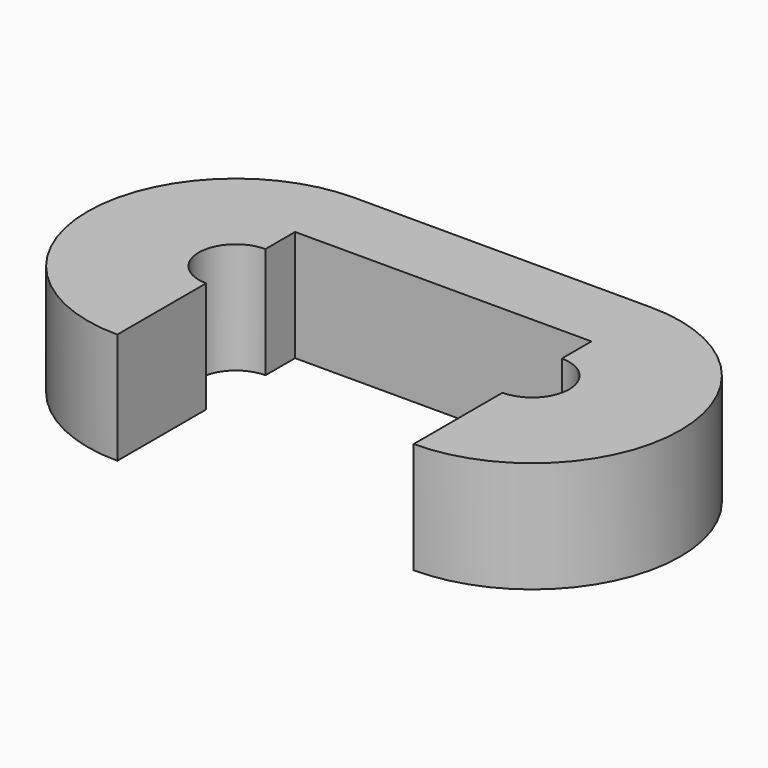
from build123d import *

# Parameters (mm, degrees)
F0_R     = 12.7
F1_DEPTH = 12.7
F2_DEPTH = 76.2
F3_DEPTH = 25.4


with BuildPart() as f1:
    # F0 (on Top) → F1 (new body)
    with BuildSketch(Plane.XY):
        with BuildLine():
            ThreePointArc((0, 50.8), (-50.8, 0), (0, -50.8))
            Line((0, -50.8), (101.6, -50.8))
            ThreePointArc((101.6, -50.8), (152.4, 0), (101.6, 50.8))
            Line((101.6, 50.8), (0, 50.8))
        make_face()
        Circle(F0_R, mode=Mode.SUBTRACT)
        with Locations((101.6, 0)):
            Circle(F0_R, mode=Mode.SUBTRACT)
    extrude(amount=F1_DEPTH)

    # F2 (cut): a face of the model
    f2_faces = [f1.faces().sort_by_distance(p)[0] for p in [
        (50.8, -50.8, 6.35),
    ]]
    extrude(f2_faces, amount=-F2_DEPTH, mode=Mode.SUBTRACT)

    # F3 (add): a face of the model
    f3_faces = [f1.faces().sort_by_distance(p)[0] for p in [
        (150.1281549349, 0, 12.7),
    ]]
    extrude(f3_faces, amount=F3_DEPTH)


solid = f1.part
